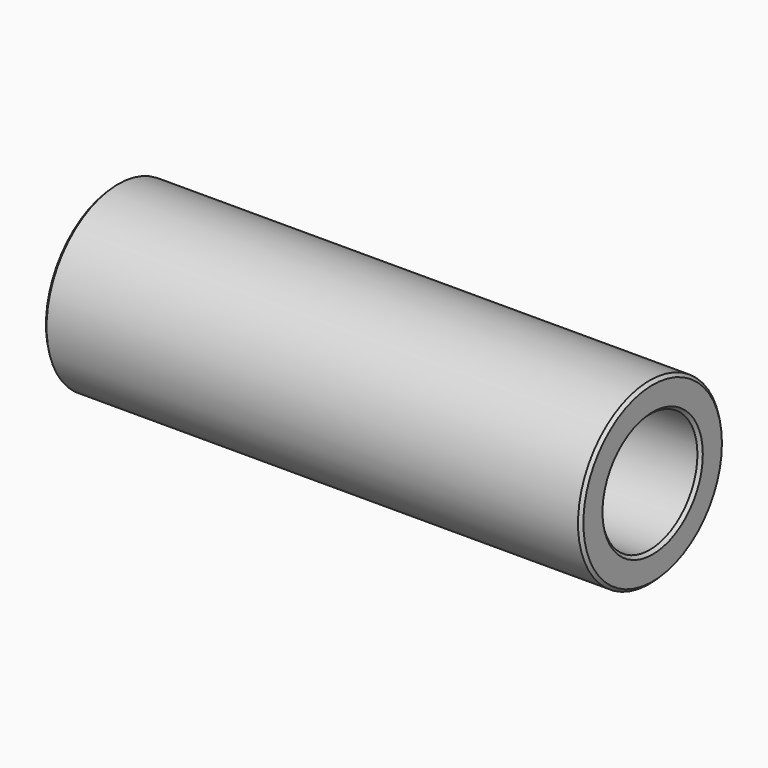
from build123d import *


with BuildPart() as f1:
    # F0 (on Top) → F1 (revolve)
    with BuildSketch(Plane.XY):
        Polygon((0, 0), (15, 0), (15, 10), (44.5, 10), (45, 10.5), (45, 14.5), (44.5, 15), (0, 15), align=None)
    revolve(axis=Axis((23.765821, 0, 0), (1, 0, 0)))

    # F2: F1 across plane


with BuildPart() as f1_1:
    add(f1.part)
    add(f1.part.mirror(Plane.YZ))


solid = f1_1.part
